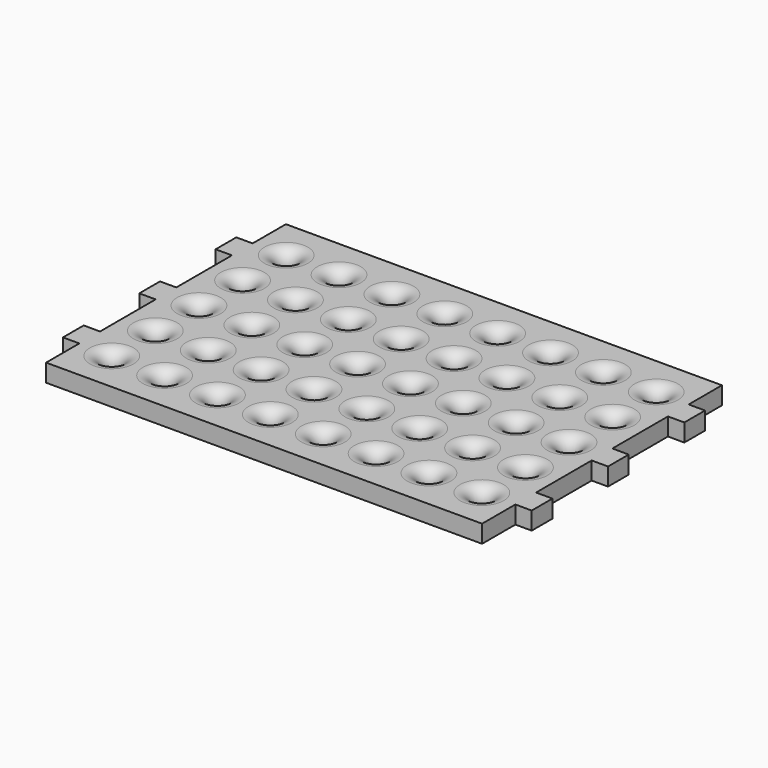
from build123d import *

# Parameters (mm, degrees)
F0_W     = 160
F0_H     = 110
F1_DEPTH = 6.5
F3_DEPTH = 6
F5_DEPTH = 6
F6_R     = 3
F7_DEPTH = 25
F8_R     = 5
F9_R     = 5


with BuildPart() as f1:
    # F0 (on Top) → F1 (new body)
    with BuildSketch(Plane.XY):
        Rectangle(F0_W, F0_H)
    extrude(amount=F1_DEPTH)

    # F2 (on face) → F3 (join)
    with BuildSketch(Plane(origin=(-80, 0, 0), x_dir=(0, -1, 0), z_dir=(-1, 0, 0))):
        Polygon((-39.75, 6.5), (-39.75, 3.25), (-35, 3.25), (-30.25, 3.25), (-30.25, 6.5), align=None)
        Polygon((-35, 3.25), (-39.75, 3.25), (-39.75, 0), (-30.25, 0), (-30.25, 3.25), align=None)
        Polygon((-4.75, 6.5), (-4.75, 3.25), (0, 3.25), (4.75, 3.25), (4.75, 6.5), align=None)
        Polygon((0, 3.25), (-4.75, 3.25), (-4.75, 0), (4.75, 0), (4.75, 3.25), align=None)
        Polygon((39.75, 6.5), (30.25, 6.5), (30.25, 3.25), (35, 3.25), (39.75, 3.25), align=None)
        Polygon((30.25, 3.25), (30.25, 0), (39.75, 0), (39.75, 3.25), (35, 3.25), align=None)
    extrude(amount=F3_DEPTH)

    # F4 (on face) → F5 (join)
    with BuildSketch(Plane.YZ.offset(80)):
        Polygon((-39.75, 6.5), (-39.75, 3.25), (-35, 3.25), (-30.25, 3.25), (-30.25, 6.5), align=None)
        Polygon((-35, 3.25), (-39.75, 3.25), (-39.75, 0), (-30.25, 0), (-30.25, 3.25), align=None)
        Polygon((-4.75, 6.5), (-4.75, 3.25), (0, 3.25), (4.75, 3.25), (4.75, 6.5), align=None)
        Polygon((0, 3.25), (-4.75, 3.25), (-4.75, 0), (4.75, 0), (4.75, 3.25), align=None)
        Polygon((39.75, 6.5), (30.25, 6.5), (30.25, 3.25), (30.25, 0), (39.75, 0), align=None)
    extrude(amount=F5_DEPTH)

    # F6 (on face) → F7 (cut)
    with BuildSketch(Plane(origin=(0, 0, 0), x_dir=(1, 0, 0), z_dir=(0, 0, -1))):
        with Locations((-67.9, 40)):
            Circle(F6_R)
        with Locations((-48.5, 40)):
            Circle(F6_R)
        with Locations((-29.1, 40)):
            Circle(F6_R)
        with Locations((-9.7, 40)):
            Circle(F6_R)
        with Locations((9.7, 40)):
            Circle(F6_R)
        with Locations((29.1, 40)):
            Circle(F6_R)
        with Locations((48.5, 40)):
            Circle(F6_R)
        with Locations((67.9, 40)):
            Circle(F6_R)
        with Locations((67.9, 20)):
            Circle(F6_R)
        with Locations((48.5, 20)):
            Circle(F6_R)
        with Locations((29.1, 20)):
            Circle(F6_R)
        with Locations((9.7, 20)):
            Circle(F6_R)
        with Locations((-9.7, 20)):
            Circle(F6_R)
        with Locations((-29.1, 20)):
            Circle(F6_R)
        with Locations((-48.5, 20)):
            Circle(F6_R)
        with Locations((-67.9, 20)):
            Circle(F6_R)
        with Locations((-67.9, 0)):
            Circle(F6_R)
        with Locations((-48.5, 0)):
            Circle(F6_R)
        with Locations((-29.1, 0)):
            Circle(F6_R)
        with Locations((-9.7, 0)):
            Circle(F6_R)
        with Locations((9.7, 0)):
            Circle(F6_R)
        with Locations((29.1, 0)):
            Circle(F6_R)
        with Locations((48.5, 0)):
            Circle(F6_R)
        with Locations((67.9, 0)):
            Circle(F6_R)
        with Locations((67.9, -20)):
            Circle(F6_R)
        with Locations((48.5, -20)):
            Circle(F6_R)
        with Locations((29.1, -20)):
            Circle(F6_R)
        with Locations((9.7, -20)):
            Circle(F6_R)
        with Locations((-9.7, -20)):
            Circle(F6_R)
        with Locations((-29.1, -20)):
            Circle(F6_R)
        with Locations((-48.5, -20)):
            Circle(F6_R)
        with Locations((-67.9, -20)):
            Circle(F6_R)
        with Locations((-67.9, -40)):
            Circle(F6_R)
        with Locations((-48.5, -40)):
            Circle(F6_R)
        with Locations((-29.1, -40)):
            Circle(F6_R)
        with Locations((-9.7, -40)):
            Circle(F6_R)
        with Locations((9.7, -40)):
            Circle(F6_R)
        with Locations((29.1, -40)):
            Circle(F6_R)
        with Locations((48.5, -40)):
            Circle(F6_R)
        with Locations((67.9, -40)):
            Circle(F6_R)
    extrude(amount=-F7_DEPTH, mode=Mode.SUBTRACT)

    # F8
    f8_edges = [f1.edges().sort_by_distance(p)[0] for p in [
        (-70.9, 40, 6.5),
        (-51.5, 40, 6.5),
        (-32.1, 40, 6.5),
        (-12.7, 40, 6.5),
        (6.7, 40, 6.5),
        (26.1, 40, 6.5),
        (45.5, 40, 6.5),
        (64.9, 40, 6.5),
        (64.9, 20, 6.5),
        (45.5, 20, 6.5),
        (26.1, 20, 6.5),
        (6.7, 20, 6.5),
        (-12.7, 20, 6.5),
        (-32.1, 20, 6.5),
        (-51.5, 20, 6.5),
        (-70.9, 20, 6.5),
    ]]
    fillet(f8_edges, radius=F8_R)

    # F9
    f9_edges = [f1.edges().sort_by_distance(p)[0] for p in [
        (-70.9, 0, 6.5),
        (-51.5, 0, 6.5),
        (-32.1, 0, 6.5),
        (-12.7, 0, 6.5),
        (6.7, 0, 6.5),
        (26.1, 0, 6.5),
        (45.5, 0, 6.5),
        (64.9, 0, 6.5),
        (64.9, -20, 6.5),
        (45.5, -20, 6.5),
        (26.1, -20, 6.5),
        (6.7, -20, 6.5),
        (-12.7, -20, 6.5),
        (-32.1, -20, 6.5),
        (-51.5, -20, 6.5),
        (-70.9, -20, 6.5),
        (-70.9, -40, 6.5),
        (-51.5, -40, 6.5),
        (-32.1, -40, 6.5),
        (-12.7, -40, 6.5),
        (6.7, -40, 6.5),
        (26.1, -40, 6.5),
        (45.5, -40, 6.5),
        (64.9, -40, 6.5),
    ]]
    fillet(f9_edges, radius=F9_R)


solid = f1.part
